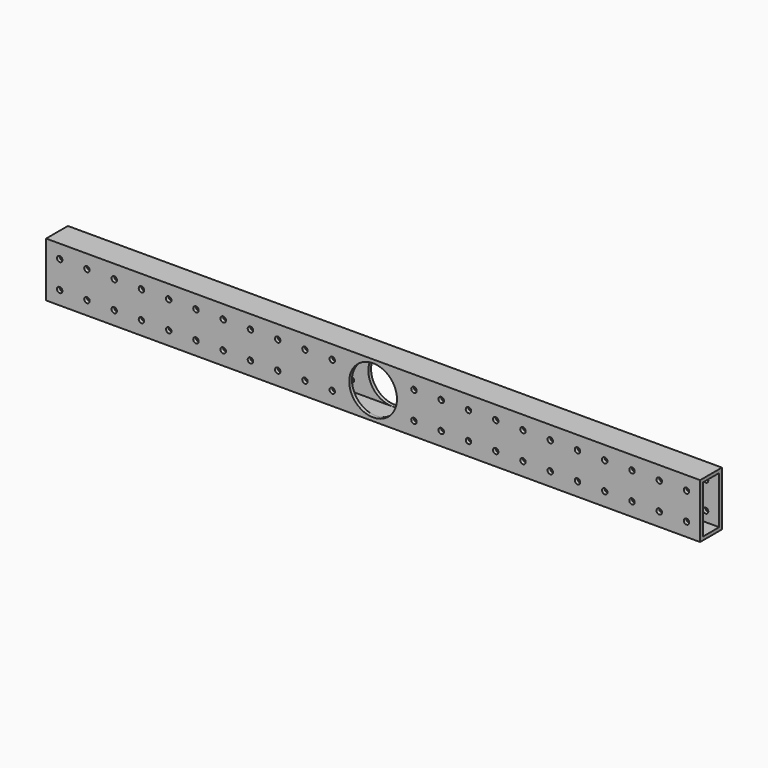
from build123d import *

# Parameters (mm, degrees)
F0_W     = 25.4
F0_H     = 50.8
F0_W_2   = 19.05
F0_H_2   = 44.45
F1_DEPTH = 609.6
F2_R     = 2.5527
F3_DEPTH = 25.4
F4_R     = 22.225
F5_DEPTH = 25.4


with BuildPart() as f1:
    # F0 (on Right) → F1 (new body)
    with BuildSketch(Plane.YZ):
        Rectangle(F0_W, F0_H)
        Rectangle(F0_W_2, F0_H_2, mode=Mode.SUBTRACT)
    extrude(amount=F1_DEPTH)

    # F2 (on face) → F3 (cut)
    with BuildSketch(Plane.XZ.offset(12.7)):
        with Locations((12.7, 12.7)):
            Circle(F2_R)
        with Locations((12.7, -12.7)):
            Circle(F2_R)
        with Locations((38.1, 12.7)):
            Circle(F2_R)
        with Locations((38.1, -12.7)):
            Circle(F2_R)
        with Locations((63.5, 12.7)):
            Circle(F2_R)
        with Locations((63.5, -12.7)):
            Circle(F2_R)
        with Locations((88.9, 12.7)):
            Circle(F2_R)
        with Locations((88.9, -12.7)):
            Circle(F2_R)
        with Locations((114.3, 12.7)):
            Circle(F2_R)
        with Locations((114.3, -12.7)):
            Circle(F2_R)
        with Locations((139.7, 12.7)):
            Circle(F2_R)
        with Locations((139.7, -12.7)):
            Circle(F2_R)
        with Locations((165.1, 12.7)):
            Circle(F2_R)
        with Locations((165.1, -12.7)):
            Circle(F2_R)
        with Locations((190.5, 12.7)):
            Circle(F2_R)
        with Locations((190.5, -12.7)):
            Circle(F2_R)
        with Locations((215.9, 12.7)):
            Circle(F2_R)
        with Locations((215.9, -12.7)):
            Circle(F2_R)
        with Locations((241.3, 12.7)):
            Circle(F2_R)
        with Locations((241.3, -12.7)):
            Circle(F2_R)
        with Locations((266.7, 12.7)):
            Circle(F2_R)
        with Locations((266.7, -12.7)):
            Circle(F2_R)
        with Locations((292.1, 12.7)):
            Circle(F2_R)
        with Locations((292.1, -12.7)):
            Circle(F2_R)
        with Locations((317.5, 12.7)):
            Circle(F2_R)
        with Locations((317.5, -12.7)):
            Circle(F2_R)
        with Locations((342.9, 12.7)):
            Circle(F2_R)
        with Locations((342.9, -12.7)):
            Circle(F2_R)
        with Locations((368.3, 12.7)):
            Circle(F2_R)
        with Locations((368.3, -12.7)):
            Circle(F2_R)
        with Locations((393.7, 12.7)):
            Circle(F2_R)
        with Locations((393.7, -12.7)):
            Circle(F2_R)
        with Locations((419.1, 12.7)):
            Circle(F2_R)
        with Locations((419.1, -12.7)):
            Circle(F2_R)
        with Locations((444.5, 12.7)):
            Circle(F2_R)
        with Locations((444.5, -12.7)):
            Circle(F2_R)
        with Locations((469.9, 12.7)):
            Circle(F2_R)
        with Locations((469.9, -12.7)):
            Circle(F2_R)
        with Locations((495.3, 12.7)):
            Circle(F2_R)
        with Locations((495.3, -12.7)):
            Circle(F2_R)
        with Locations((520.7, 12.7)):
            Circle(F2_R)
        with Locations((520.7, -12.7)):
            Circle(F2_R)
        with Locations((546.1, 12.7)):
            Circle(F2_R)
        with Locations((546.1, -12.7)):
            Circle(F2_R)
        with Locations((571.5, 12.7)):
            Circle(F2_R)
        with Locations((571.5, -12.7)):
            Circle(F2_R)
        with Locations((596.9, 12.7)):
            Circle(F2_R)
        with Locations((596.9, -12.7)):
            Circle(F2_R)
    extrude(amount=-F3_DEPTH, mode=Mode.SUBTRACT)

    # F4 (on face) → F5 (cut)
    with BuildSketch(Plane.XZ.offset(12.7)):
        with Locations((304.8, 0)):
            Circle(F4_R)
    extrude(amount=-F5_DEPTH, mode=Mode.SUBTRACT)


solid = f1.part
